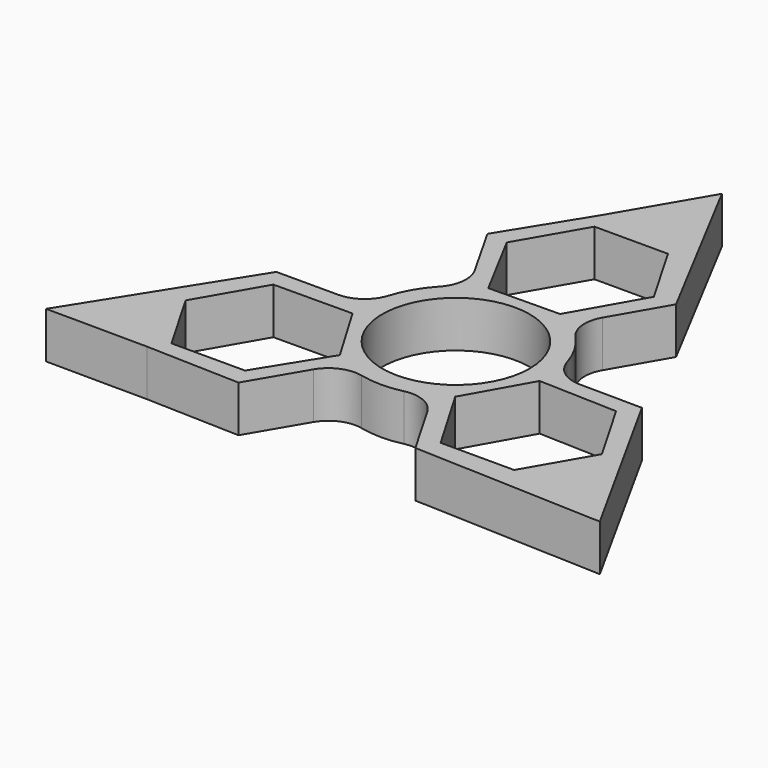
from build123d import *

# Parameters (mm, degrees)
F0_R     = 11.125
F1_DEPTH = 7
F2_DEPTH = 7
F3_DEPTH = 7


with BuildPart() as f1:
    # F0 (on Top) → F1 (new body)
    with BuildSketch(Plane.XY):
        with BuildLine():
            Line((14.352928, 23.6), (0.942339, 49.019534))
            Line((0.942339, 49.019534), (-6.80188, 35.797903))
            Line((-6.80188, 35.797903), (-14.258011, 23.764401))
            Line((-14.258011, 23.764401), (-9.599727, 15.550613))
            ThreePointArc((-9.599727, 15.550613), (-8.984191, 12.491637), (-10.302184, 9.663366))
            ThreePointArc((-10.302184, 9.663366), (-12.214839, 7.093189), (-13.499103, 4.158105))
            ThreePointArc((-13.499103, 4.158105), (-15.307655, 1.607595), (-18.277547, 0.63))
            Line((-18.277547, 0.63), (-27.614663, 0.63))
            Line((-27.614663, 0.63), (-42.923331, -23.693677))
            Line((-42.923331, -23.693677), (-27.600953, -23.789553))
            Line((-27.600953, -23.789553), (-13.45157, -24.23))
            Line((-13.45157, -24.23), (-8.667362, -16.088915))
            ThreePointArc((-8.667362, -16.088915), (-6.325979, -14.026356), (-3.217628, -13.753636))
            ThreePointArc((-3.217628, -13.753636), (-0.035463, -14.124955), (3.148527, -13.769619))
            ThreePointArc((3.148527, -13.769619), (6.261609, -14.060615), (8.593178, -16.14382))
            Line((8.593178, -16.14382), (13.261736, -24.23))
            Line((13.261736, -24.23), (41.980992, -25.325857))
            Line((41.980992, -25.325857), (27.70958, 0.465599))
            Line((27.70958, 0.465599), (18.26709, 0.538301))
            ThreePointArc((18.26709, 0.538301), (15.31017, 1.534719), (13.519812, 4.09027))
            ThreePointArc((13.519812, 4.09027), (12.250302, 7.031766), (10.350576, 9.611514))
            ThreePointArc((10.350576, 9.611514), (9.046046, 12.45302), (9.68437, 15.51382))
            Line((9.68437, 15.51382), (14.352928, 23.6))
        make_face()
        Polygon((-31.423317, -11.732377), (-25.872195, -2.117552), (-13.976091, -2.045608), (-8.500632, -11.280731), (-14.769951, -21.347202), (-25.872195, -21.347202), align=None, mode=Mode.SUBTRACT)
        Polygon((25.872195, -21.347202), (14.769951, -21.347202), (8.759594, -11.080845), (14.019715, -1.721397), (25.872195, -2.117552), (31.423317, -11.732377), align=None, mode=Mode.SUBTRACT)
        Circle(F0_R, mode=Mode.SUBTRACT)
        Polygon((-11.102244, 23.464754), (-5.551122, 33.079579), (5.551122, 33.079579), (11.102244, 23.464754), (5.216496, 13.126454), (-5.519084, 13.002128), align=None, mode=Mode.SUBTRACT)
    extrude(amount=F1_DEPTH)

    # F0 (on Top) → F2 (join)
    with BuildSketch(Plane.XY):
        with BuildLine():
            Line((14.352928, 23.6), (0.942339, 49.019534))
            Line((0.942339, 49.019534), (-6.80188, 35.797903))
            Line((-6.80188, 35.797903), (-14.258011, 23.764401))
            Line((-14.258011, 23.764401), (-9.599727, 15.550613))
            ThreePointArc((-9.599727, 15.550613), (-8.984191, 12.491637), (-10.302184, 9.663366))
            ThreePointArc((-10.302184, 9.663366), (-12.214839, 7.093189), (-13.499103, 4.158105))
            ThreePointArc((-13.499103, 4.158105), (-15.307655, 1.607595), (-18.277547, 0.63))
            Line((-18.277547, 0.63), (-27.614663, 0.63))
            Line((-27.614663, 0.63), (-42.923331, -23.693677))
            Line((-42.923331, -23.693677), (-27.600953, -23.789553))
            Line((-27.600953, -23.789553), (-13.45157, -24.23))
            Line((-13.45157, -24.23), (-8.667362, -16.088915))
            ThreePointArc((-8.667362, -16.088915), (-6.325979, -14.026356), (-3.217628, -13.753636))
            ThreePointArc((-3.217628, -13.753636), (-0.035463, -14.124955), (3.148527, -13.769619))
            ThreePointArc((3.148527, -13.769619), (6.261609, -14.060615), (8.593178, -16.14382))
            Line((8.593178, -16.14382), (13.261736, -24.23))
            Line((13.261736, -24.23), (41.980992, -25.325857))
            Line((41.980992, -25.325857), (27.70958, 0.465599))
            Line((27.70958, 0.465599), (18.26709, 0.538301))
            ThreePointArc((18.26709, 0.538301), (15.31017, 1.534719), (13.519812, 4.09027))
            ThreePointArc((13.519812, 4.09027), (12.250302, 7.031766), (10.350576, 9.611514))
            ThreePointArc((10.350576, 9.611514), (9.046046, 12.45302), (9.68437, 15.51382))
            Line((9.68437, 15.51382), (14.352928, 23.6))
        make_face()
        Polygon((-31.423317, -11.732377), (-25.872195, -2.117552), (-13.976091, -2.045608), (-8.500632, -11.280731), (-14.769951, -21.347202), (-25.872195, -21.347202), align=None, mode=Mode.SUBTRACT)
        Polygon((25.872195, -21.347202), (14.769951, -21.347202), (8.759594, -11.080845), (14.019715, -1.721397), (25.872195, -2.117552), (31.423317, -11.732377), align=None, mode=Mode.SUBTRACT)
        Circle(F0_R, mode=Mode.SUBTRACT)
        Polygon((-11.102244, 23.464754), (-5.551122, 33.079579), (5.551122, 33.079579), (11.102244, 23.464754), (5.216496, 13.126454), (-5.519084, 13.002128), align=None, mode=Mode.SUBTRACT)
    extrude(amount=F2_DEPTH)

    # F0 (on Top) → F3 (join)
    with BuildSketch(Plane.XY):
        with BuildLine():
            Line((14.352928, 23.6), (0.942339, 49.019534))
            Line((0.942339, 49.019534), (-6.80188, 35.797903))
            Line((-6.80188, 35.797903), (-14.258011, 23.764401))
            Line((-14.258011, 23.764401), (-9.599727, 15.550613))
            ThreePointArc((-9.599727, 15.550613), (-8.984191, 12.491637), (-10.302184, 9.663366))
            ThreePointArc((-10.302184, 9.663366), (-12.214839, 7.093189), (-13.499103, 4.158105))
            ThreePointArc((-13.499103, 4.158105), (-15.307655, 1.607595), (-18.277547, 0.63))
            Line((-18.277547, 0.63), (-27.614663, 0.63))
            Line((-27.614663, 0.63), (-42.923331, -23.693677))
            Line((-42.923331, -23.693677), (-27.600953, -23.789553))
            Line((-27.600953, -23.789553), (-13.45157, -24.23))
            Line((-13.45157, -24.23), (-8.667362, -16.088915))
            ThreePointArc((-8.667362, -16.088915), (-6.325979, -14.026356), (-3.217628, -13.753636))
            ThreePointArc((-3.217628, -13.753636), (-0.035463, -14.124955), (3.148527, -13.769619))
            ThreePointArc((3.148527, -13.769619), (6.261609, -14.060615), (8.593178, -16.14382))
            Line((8.593178, -16.14382), (13.261736, -24.23))
            Line((13.261736, -24.23), (41.980992, -25.325857))
            Line((41.980992, -25.325857), (27.70958, 0.465599))
            Line((27.70958, 0.465599), (18.26709, 0.538301))
            ThreePointArc((18.26709, 0.538301), (15.31017, 1.534719), (13.519812, 4.09027))
            ThreePointArc((13.519812, 4.09027), (12.250302, 7.031766), (10.350576, 9.611514))
            ThreePointArc((10.350576, 9.611514), (9.046046, 12.45302), (9.68437, 15.51382))
            Line((9.68437, 15.51382), (14.352928, 23.6))
        make_face()
        Polygon((-31.423317, -11.732377), (-25.872195, -2.117552), (-13.976091, -2.045608), (-8.500632, -11.280731), (-14.769951, -21.347202), (-25.872195, -21.347202), align=None, mode=Mode.SUBTRACT)
        Polygon((25.872195, -21.347202), (14.769951, -21.347202), (8.759594, -11.080845), (14.019715, -1.721397), (25.872195, -2.117552), (31.423317, -11.732377), align=None, mode=Mode.SUBTRACT)
        Circle(F0_R, mode=Mode.SUBTRACT)
        Polygon((-11.102244, 23.464754), (-5.551122, 33.079579), (5.551122, 33.079579), (11.102244, 23.464754), (5.216496, 13.126454), (-5.519084, 13.002128), align=None, mode=Mode.SUBTRACT)
    extrude(amount=F3_DEPTH)


solid = f1.part
